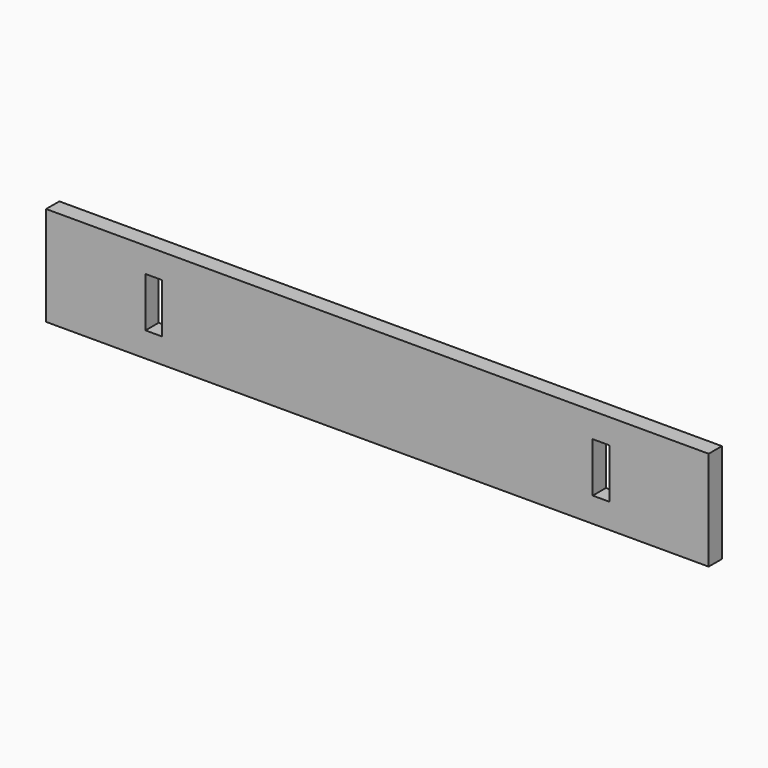
from build123d import *

# Parameters (mm, degrees)
F1_DEPTH = 3.175


with BuildPart() as f1:
    # F0 (on Front) → F1 (new body)
    with BuildSketch(Plane.XZ):
        Polygon((-63.5, 9.525), (-63.5, 0), (-44.45, 0), (-44.45, 4.7625), (-41.275, 4.7625), (-41.275, 0), (0, 0), (41.275, 0), (41.275, 4.7625), (44.45, 4.7625), (44.45, 0), (63.5, 0), (63.5, 9.525), align=None)
        Polygon((-44.45, 0), (-63.5, 0), (-63.5, -9.525), (0, -9.525), (0, 0), (-41.275, 0), (-41.275, -4.7625), (-44.45, -4.7625), align=None)
        Polygon((0, 0), (0, -9.525), (63.5, -9.525), (63.5, 0), (44.45, 0), (44.45, -4.7625), (41.275, -4.7625), (41.275, 0), align=None)
    extrude(amount=F1_DEPTH)


solid = f1.part
